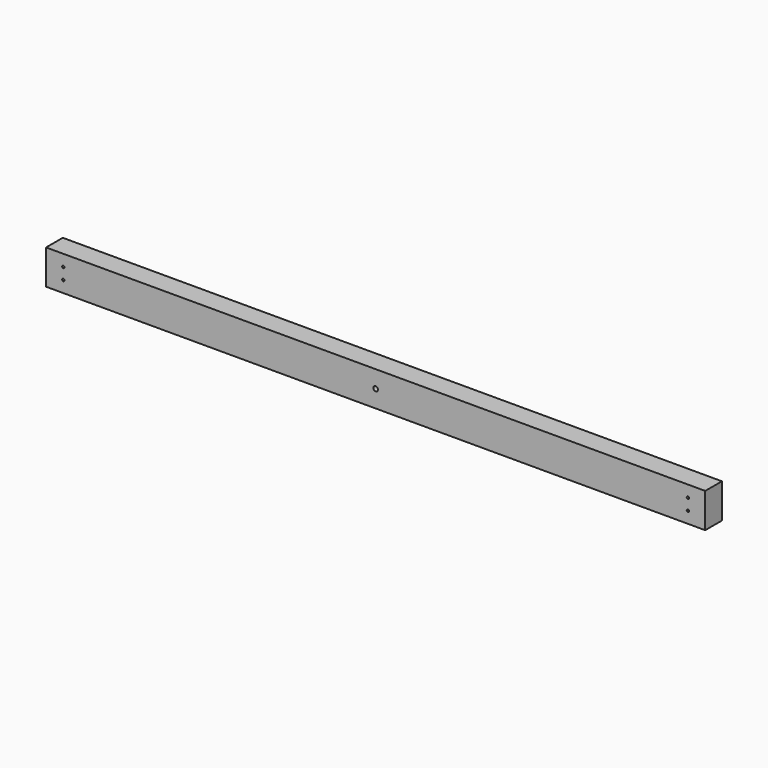
from build123d import *

# Parameters (mm, degrees)
SKETCH_W                 = 38
SKETCH_H                 = 63
PAD_DEPTH                = 600
SKETCH001_R              = 4.2
HOLE_DEPTH               = 50.501
SKETCH002_R              = 2.15
HOLE001_DEPTH            = 2455.007602
SKETCH002_MIRRORED_2_R   = 2.15
HOLE001_MIRRORED_2_DEPTH = 2455.007602


with BuildPart() as part:
    # Sketch → Pad (new body, symmetric)
    with BuildSketch(Plane.YZ):
        Rectangle(SKETCH_W, SKETCH_H)
    extrude(amount=PAD_DEPTH, both=True)

    # Sketch001 → Hole (cut, through all)
    with BuildSketch(Plane.XZ.offset(31.5)):
        Circle(SKETCH001_R)
    extrude(amount=-HOLE_DEPTH, mode=Mode.SUBTRACT)

    # Sketch002 → Hole001 (cut, through all)
    with BuildSketch(Plane.XZ.offset(31.5)):
        with Locations((568.5, 10.5)):
            Circle(SKETCH002_R)
    hole001 = extrude(amount=-HOLE001_DEPTH, mode=Mode.SUBTRACT)

    # Sketch002 Mirrored 2 → Hole001 Mirrored 2 (cut, through all)
    with BuildSketch(Plane(origin=(0, -31.5, 0), x_dir=(-1, 0, 0), z_dir=(0, 1, 0))):
        with Locations((568.5, 10.5)):
            Circle(SKETCH002_MIRRORED_2_R)
    hole001_mirrored_2 = extrude(amount=HOLE001_MIRRORED_2_DEPTH, mode=Mode.SUBTRACT)

    # Mirrored001: Hole001, Hole001 Mirrored 2 across Sketch002 H_Axis
    add(hole001.mirror(Plane(origin=(0, -31.5, 0), x_dir=(0, -1, 0), z_dir=(0, 0, 1))), mode=Mode.SUBTRACT)
    add(hole001_mirrored_2.mirror(Plane(origin=(0, -31.5, 0), x_dir=(0, -1, 0), z_dir=(0, 0, 1))), mode=Mode.SUBTRACT)


solid = part.part
